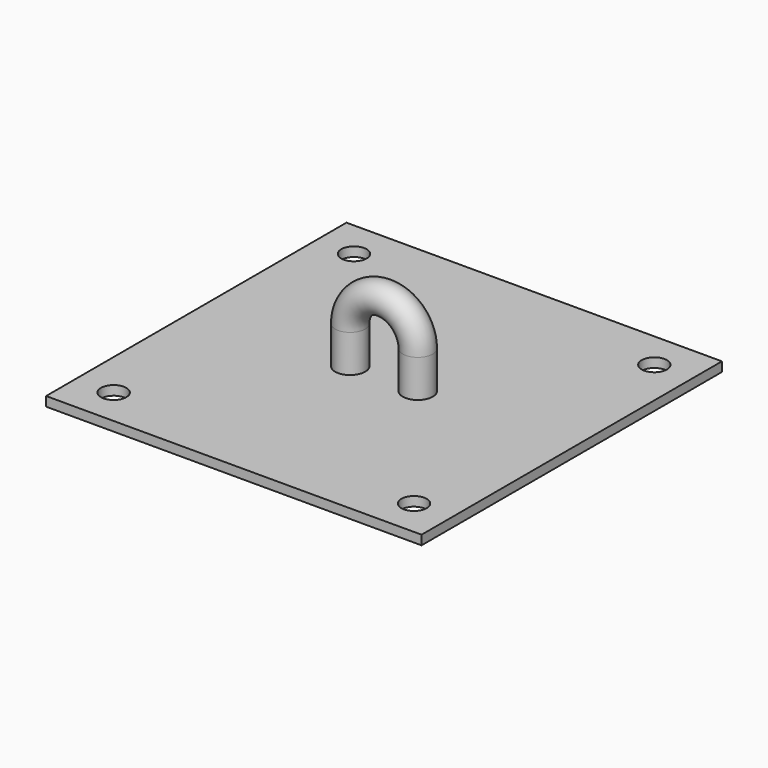
from build123d import *

# Parameters (mm, degrees)
F0_W     = 200
F0_H     = 200
F1_DEPTH = 5
F3_D     = 13.5
F5_R     = 8


with BuildPart() as f1:
    # F0 (on Top) → F1 (new body)
    with BuildSketch(Plane.XY):
        with Locations((100, 100)):
            Rectangle(F0_W, F0_H)
    extrude(amount=F1_DEPTH)

    # F3 (through all)
    with Locations(Plane(origin=(0, 0, 0), x_dir=(1, 0, 0), z_dir=(0, 0, -1))):
        with Locations((20, -20), (180, -20), (20, -180), (180, -180)):
            Hole(F3_D / 2)

    # F8: sweep along a path in F7
    with BuildLine(Plane.XZ.offset(-100)) as f8_path:
        Line((118, 5), (118, 25))
        ThreePointArc((118, 25), (100, 43), (82, 25))
        Line((82, 25), (82, 5))
    # F5 (on face) → F8 (sweep)
    with BuildSketch(Plane.XY.offset(5)):
        with Locations((118, 100)):
            Circle(F5_R)
    sweep(path=f8_path.line)


solid = f1.part
